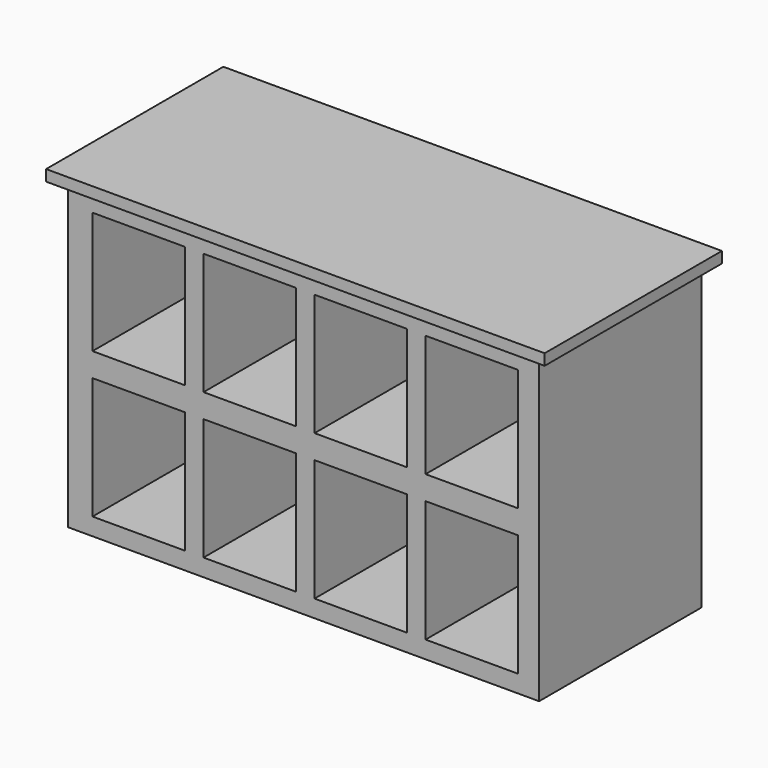
from build123d import *

# Parameters (mm, degrees)
F0_W     = 1295.4
F0_H     = 838.2
F0_W_2   = 253.8984
F0_H_2   = 335.28
F1_DEPTH = 558.6984
F2_W     = 1371.6
F2_H     = 609.6
F3_DEPTH = 30.48


with BuildPart() as f1:
    # F0 (on Front) → F1 (new body)
    with BuildSketch(Plane.XZ):
        with Locations((9.26123, -419.1)):
            Rectangle(F0_W, F0_H)
        with Locations((-444.683126, -622.778372)):
            Rectangle(F0_W_2, F0_H_2, mode=Mode.SUBTRACT)
        with Locations((-139.251909, -622.778372)):
            Rectangle(F0_W_2, F0_H_2, mode=Mode.SUBTRACT)
        with Locations((166.179308, -622.778372)):
            Rectangle(F0_W_2, F0_H_2, mode=Mode.SUBTRACT)
        with Locations((471.610525, -622.778372)):
            Rectangle(F0_W_2, F0_H_2, mode=Mode.SUBTRACT)
        with Locations((-444.683126, -222.123623)):
            Rectangle(F0_W_2, F0_H_2, mode=Mode.SUBTRACT)
        with Locations((-139.251909, -222.123623)):
            Rectangle(F0_W_2, F0_H_2, mode=Mode.SUBTRACT)
        with Locations((166.179308, -222.123623)):
            Rectangle(F0_W_2, F0_H_2, mode=Mode.SUBTRACT)
        with Locations((471.610525, -222.123623)):
            Rectangle(F0_W_2, F0_H_2, mode=Mode.SUBTRACT)
    extrude(amount=F1_DEPTH)

    # F2 (on Top) → F3 (join)
    with BuildSketch(Plane.XY):
        with Locations((11.501133, -285.213902)):
            Rectangle(F2_W, F2_H)
    extrude(amount=F3_DEPTH)


solid = f1.part
